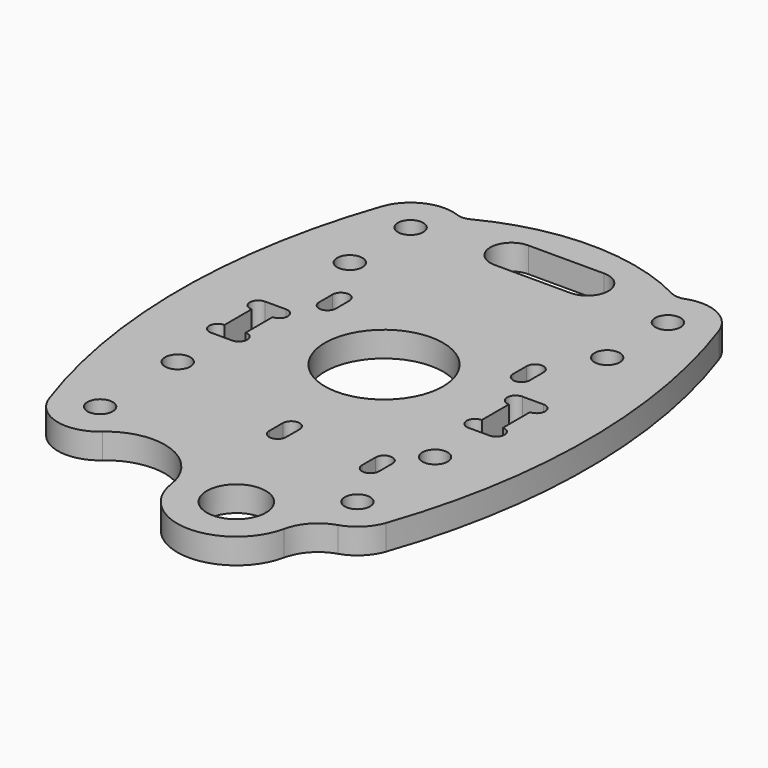
from build123d import *

# Parameters (mm, degrees)
F0_R     = 1.5
F0_R_2   = 3.5
F0_R_3   = 7
F1_DEPTH = 3


with BuildPart() as f1:
    # F0 (on Top) → F1 (new body)
    with BuildSketch(Plane.XY):
        with BuildLine():
            ThreePointArc((-11.893819, 27.782037), (-12.689908, 27.564035), (-13.506235, 27.686073))
            ThreePointArc((-13.506235, 27.686073), (-17.379167, 27.524008), (-19.972396, 24.642857))
            ThreePointArc((-19.972396, 24.642857), (-24.136461, 0), (-19.972396, -24.642857))
            ThreePointArc((-19.972396, -24.642857), (-16.529518, -27.833512), (-11.958941, -26.764164))
            ThreePointArc((-11.958941, -26.764164), (-4.929637, -25.466285), (-0.425729, -31.016996))
            ThreePointArc((-0.425729, -31.016996), (6.26187, -36.995948), (13.340545, -31.485577))
            ThreePointArc((13.340545, -31.485577), (14.538358, -29.170832), (16.738325, -27.773352))
            ThreePointArc((16.738325, -27.773352), (18.727537, -26.592595), (19.972396, -24.642857))
            ThreePointArc((19.972396, -24.642857), (24.136461, 0), (19.972396, 24.642857))
            ThreePointArc((19.972396, 24.642857), (17.379167, 27.524008), (13.506235, 27.686073))
            ThreePointArc((13.506235, 27.686073), (12.689908, 27.564035), (11.893819, 27.782037))
            ThreePointArc((11.893819, 27.782037), (0, 30.661979), (-11.893819, 27.782037))
        make_face()
        with Locations((-15.25, -23)):
            Circle(F0_R, mode=Mode.SUBTRACT)
        with Locations((-15.25, -11.5)):
            Circle(F0_R, mode=Mode.SUBTRACT)
        with Locations((6.5, -30)):
            Circle(F0_R_2, mode=Mode.SUBTRACT)
        with Locations((15.25, -23)):
            Circle(F0_R, mode=Mode.SUBTRACT)
        with BuildLine():
            Line((0, -17), (0, -15))
            ThreePointArc((0, -15), (1, -14), (2, -15))
            Line((2, -15), (2, -17))
            ThreePointArc((2, -17), (1, -18), (0, -17))
        make_face(mode=Mode.SUBTRACT)
        with BuildLine():
            Line((11, -17), (11, -15))
            ThreePointArc((11, -15), (12, -14), (13, -15))
            Line((13, -15), (13, -17))
            ThreePointArc((13, -17), (12, -18), (11, -17))
        make_face(mode=Mode.SUBTRACT)
        with Locations((15.25, -11.5)):
            Circle(F0_R, mode=Mode.SUBTRACT)
        with BuildLine():
            Line((-14, 1), (-14, -3))
            ThreePointArc((-14, -3), (-13, -4), (-14, -5))
            Line((-14, -5), (-16.5, -5))
            ThreePointArc((-16.5, -5), (-17.5, -4), (-16.5, -3))
            Line((-16.5, -3), (-16.5, 1))
            ThreePointArc((-16.5, 1), (-17.5, 2), (-16.5, 3))
            Line((-16.5, 3), (-14, 3))
            ThreePointArc((-14, 3), (-13, 2), (-14, 1))
        make_face(mode=Mode.SUBTRACT)
        with BuildLine():
            Line((-12.5, 6), (-12.5, 8))
            ThreePointArc((-12.5, 8), (-11.5, 9), (-10.5, 8))
            Line((-10.5, 8), (-10.5, 6))
            ThreePointArc((-10.5, 6), (-11.5, 5), (-12.5, 6))
        make_face(mode=Mode.SUBTRACT)
        with Locations((-15.25, 14)):
            Circle(F0_R, mode=Mode.SUBTRACT)
        with Locations((-15.25, 23)):
            Circle(F0_R, mode=Mode.SUBTRACT)
        Circle(F0_R_3, mode=Mode.SUBTRACT)
        with BuildLine():
            Line((10.5, 6), (10.5, 8))
            ThreePointArc((10.5, 8), (11.5, 9), (12.5, 8))
            Line((12.5, 8), (12.5, 6))
            ThreePointArc((12.5, 6), (11.5, 5), (10.5, 6))
        make_face(mode=Mode.SUBTRACT)
        with BuildLine():
            Line((14, 3), (16.5, 3))
            ThreePointArc((16.5, 3), (17.5, 2), (16.5, 1))
            Line((16.5, 1), (16.5, -3))
            ThreePointArc((16.5, -3), (17.5, -4), (16.5, -5))
            Line((16.5, -5), (14, -5))
            ThreePointArc((14, -5), (13, -4), (14, -3))
            Line((14, -3), (14, 1))
            ThreePointArc((14, 1), (13, 2), (14, 3))
        make_face(mode=Mode.SUBTRACT)
        with BuildLine():
            ThreePointArc((-4.5, 22), (-7, 24.5), (-4.5, 27))
            Line((-4.5, 27), (4.5, 27))
            ThreePointArc((4.5, 27), (7, 24.5), (4.5, 22))
            Line((4.5, 22), (-4.5, 22))
        make_face(mode=Mode.SUBTRACT)
        with Locations((15.25, 14)):
            Circle(F0_R, mode=Mode.SUBTRACT)
        with Locations((15.25, 23)):
            Circle(F0_R, mode=Mode.SUBTRACT)
    extrude(amount=F1_DEPTH)


solid = f1.part
